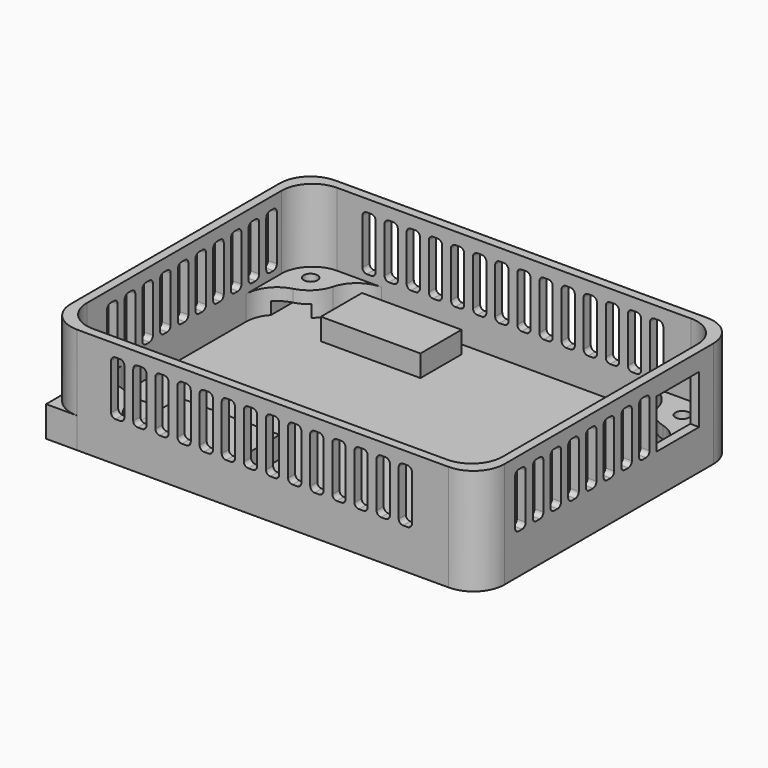
from build123d import *

# Parameters (mm, degrees)
CYLINDER009_R             = 1.7
CYLINDER009_DEPTH         = 2
CYLINDER007_R             = 1.7
CYLINDER007_DEPTH         = 2
BOX001_W                  = 2
BOX001_H                  = 10
BOX001_DEPTH              = 2
BOX002_W                  = 2
BOX002_H                  = 10
BOX002_DEPTH              = 2
CYLINDER_R                = 1.7
CYLINDER_DEPTH            = 2
BOX_W                     = 37
BOX_H                     = 73
BOX_DEPTH                 = 0.6
FILLET_R                  = 7
CYLINDER008_R             = 1.7
CYLINDER008_DEPTH         = 2
BOX075_W                  = 10.8118
BOX075_H                  = 2.8
BOX075_DEPTH              = 6
FILLET065_R               = 1
BOX087_W                  = 8
BOX087_H                  = 2.1
BOX087_DEPTH              = 3
CHAMFER003_SIZE           = 2.5
BOX086_W                  = 8
BOX086_H                  = 2.1
BOX086_DEPTH              = 3
CHAMFER002_SIZE           = 2.5
BOX088_W                  = 15.86
BOX088_H                  = 7
BOX088_DEPTH              = 4
FILLET067_R               = 1.7
CYLINDER004_R             = 3.5
CYLINDER004_DEPTH         = 6
BOX076_W                  = 22.5
BOX076_H                  = 11.6
BOX076_DEPTH              = 6.9
CYLINDER010_R             = 3.5
CYLINDER010_DEPTH         = 6
BOX089_W                  = 0.8
BOX089_H                  = 0.6
BOX089_DEPTH              = 2
FILLET068_R               = 0.2
BOX094_W                  = 0.9
BOX094_H                  = 0.6
BOX094_DEPTH              = 2
FILLET071_R               = 0.2
BOX093_W                  = 10.8118
BOX093_H                  = 2.8
BOX093_DEPTH              = 6
FILLET070_R               = 1
BOX092_W                  = 15.86
BOX092_H                  = 7
BOX092_DEPTH              = 4
FILLET069_R               = 1.7
CYLINDER011_R             = 3.5
CYLINDER011_DEPTH         = 6
BOX099_W                  = 0.8
BOX099_H                  = 0.6
BOX099_DEPTH              = 2
FILLET073_R               = 0.2
BOX095_W                  = 0.9
BOX095_H                  = 0.6
BOX095_DEPTH              = 2
FILLET072_R               = 0.2
BOX096_W                  = 10.8118
BOX096_H                  = 3.3
BOX096_DEPTH              = 6
FILLET075_R               = 1
BOX097_W                  = 15.86
BOX097_H                  = 7
BOX097_DEPTH              = 4
FILLET074_R               = 1.7
BOX091_W                  = 22.5
BOX091_H                  = 11.6
BOX091_DEPTH              = 6.9
BOX011_W                  = 3
BOX011_H                  = 2
BOX011_DEPTH              = 12.3
FILLET013_R               = 1
BOX013_W                  = 3
BOX013_H                  = 2
BOX013_DEPTH              = 12.3
FILLET011_R               = 1
BOX012_W                  = 3
BOX012_H                  = 2
BOX012_DEPTH              = 12.3
FILLET012_R               = 1
BOX014_W                  = 3
BOX014_H                  = 2
BOX014_DEPTH              = 12.3
FILLET010_R               = 1
BOX017_W                  = 3
BOX017_H                  = 2
BOX017_DEPTH              = 12.3
FILLET017_R               = 1
BOX016_W                  = 3
BOX016_H                  = 2
BOX016_DEPTH              = 12.3
FILLET016_R               = 1
BOX015_W                  = 3
BOX015_H                  = 2
BOX015_DEPTH              = 12.3
FILLET014_R               = 1
BOX018_W                  = 3
BOX018_H                  = 2
BOX018_DEPTH              = 12.3
FILLET015_R               = 1
BOX021_W                  = 3
BOX021_H                  = 2
BOX021_DEPTH              = 12.3
FILLET021_R               = 1
BOX020_W                  = 3
BOX020_H                  = 2
BOX020_DEPTH              = 12.3
FILLET020_R               = 1
BOX019_W                  = 3
BOX019_H                  = 2
BOX019_DEPTH              = 12.3
FILLET018_R               = 1
BOX022_W                  = 3
BOX022_H                  = 2
BOX022_DEPTH              = 12.3
FILLET019_R               = 1
BOX029_W                  = 3
BOX029_H                  = 2
BOX029_DEPTH              = 12.3
FILLET029_R               = 1
BOX028_W                  = 3
BOX028_H                  = 2
BOX028_DEPTH              = 12.3
FILLET028_R               = 1
BOX037_W                  = 3
BOX037_H                  = 2
BOX037_DEPTH              = 12.3
FILLET034_R               = 1
BOX036_W                  = 3
BOX036_H                  = 2
BOX036_DEPTH              = 12.3
FILLET037_R               = 1
BOX034_W                  = 3
BOX034_H                  = 2
BOX034_DEPTH              = 12.3
FILLET035_R               = 1
BOX035_W                  = 3
BOX035_H                  = 2
BOX035_DEPTH              = 12.3
FILLET036_R               = 1
FUSION026_PLACEMENT_ANGLE = 90
BOX038_W                  = 3
BOX038_H                  = 2
BOX038_DEPTH              = 12.3
FILLET039_R               = 1
BOX039_W                  = 3
BOX039_H                  = 2
BOX039_DEPTH              = 12.3
FILLET040_R               = 1
FUSION029_PLACEMENT_ANGLE = 90
BOX030_W                  = 3
BOX030_H                  = 2
BOX030_DEPTH              = 12.3
FILLET033_R               = 1
BOX032_W                  = 3
BOX032_H                  = 2
BOX032_DEPTH              = 12.3
FILLET031_R               = 1
BOX031_W                  = 3
BOX031_H                  = 2
BOX031_DEPTH              = 12.3
FILLET032_R               = 1
BOX033_W                  = 3
BOX033_H                  = 2
BOX033_DEPTH              = 12.3
FILLET030_R               = 1
FUSION021_PLACEMENT_ANGLE = 90
BOX048_W                  = 3
BOX048_H                  = 2
BOX048_DEPTH              = 12.3
FILLET052_R               = 1
BOX046_W                  = 3
BOX046_H                  = 2
BOX046_DEPTH              = 12.3
FILLET049_R               = 1
BOX044_W                  = 3
BOX044_H                  = 2
BOX044_DEPTH              = 12.3
FILLET046_R               = 1
BOX049_W                  = 3
BOX049_H                  = 2
BOX049_DEPTH              = 12.3
FILLET048_R               = 1
BOX043_W                  = 3
BOX043_H                  = 2
BOX043_DEPTH              = 12.3
FILLET045_R               = 1
BOX045_W                  = 3
BOX045_H                  = 2
BOX045_DEPTH              = 12.3
FILLET054_R               = 1
BOX047_W                  = 3
BOX047_H                  = 2
BOX047_DEPTH              = 12.3
FILLET047_R               = 1
BOX051_W                  = 3
BOX051_H                  = 2
BOX051_DEPTH              = 12.3
FILLET053_R               = 1
BOX053_W                  = 3
BOX053_H                  = 2
BOX053_DEPTH              = 12.3
FILLET051_R               = 1
BOX042_W                  = 3
BOX042_H                  = 2
BOX042_DEPTH              = 12.3
FILLET044_R               = 1
BOX040_W                  = 3
BOX040_H                  = 2
BOX040_DEPTH              = 12.3
FILLET041_R               = 1
BOX052_W                  = 3
BOX052_H                  = 2
BOX052_DEPTH              = 12.3
FILLET042_R               = 1
BOX050_W                  = 3
BOX050_H                  = 2
BOX050_DEPTH              = 12.3
FILLET050_R               = 1
BOX041_W                  = 3
BOX041_H                  = 2
BOX041_DEPTH              = 12.3
FILLET043_R               = 1
BOX064_W                  = 2
BOX064_H                  = 12
BOX064_DEPTH              = 11
BOX073_W                  = 3
BOX073_H                  = 2
BOX073_DEPTH              = 12.3
FILLET061_R               = 1
BOX067_W                  = 3
BOX067_H                  = 2
BOX067_DEPTH              = 12.3
FILLET056_R               = 1
BOX068_W                  = 3
BOX068_H                  = 2
BOX068_DEPTH              = 12.3
FILLET060_R               = 1
BOX074_W                  = 3
BOX074_H                  = 2
BOX074_DEPTH              = 12.3
FILLET059_R               = 1
FUSION042_PLACEMENT_ANGLE = 90
BOX071_W                  = 3
BOX071_H                  = 2
BOX071_DEPTH              = 12.3
FILLET064_R               = 1
BOX065_W                  = 3
BOX065_H                  = 2
BOX065_DEPTH              = 12.3
FILLET057_R               = 1
BOX066_W                  = 3
BOX066_H                  = 2
BOX066_DEPTH              = 12.3
FILLET062_R               = 1
BOX072_W                  = 3
BOX072_H                  = 2
BOX072_DEPTH              = 12.3
FILLET055_R               = 1
FUSION044_PLACEMENT_ANGLE = 90
BOX100_W                  = 94
BOX100_H                  = 69
BOX100_DEPTH              = 22
FILLET001_R               = 7
BOX102_W                  = 98
BOX102_H                  = 73
BOX102_DEPTH              = 24
FILLET076_R               = 7
CYLINDER001_R             = 1.55
CYLINDER001_DEPTH         = 2.8
CYLINDER002_R             = 1.55
CYLINDER002_DEPTH         = 2.8
CYLINDER003_R             = 1.55
CYLINDER003_DEPTH         = 2.8
BOX005_W                  = 6.3
BOX005_H                  = 66.7
BOX005_DEPTH              = 2.75
BOX006_W                  = 6.3
BOX006_H                  = 66.7
BOX006_DEPTH              = 2.75
CYLINDER012_R             = 1.55
CYLINDER012_DEPTH         = 2.8
BOX004_W                  = 74
BOX004_H                  = 69
BOX004_DEPTH              = 5.5
FILLET004_R               = 7
BOX003_W                  = 94
BOX003_H                  = 49
BOX003_DEPTH              = 5.5
FILLET003_R               = 7
BOX101_W                  = 94
BOX101_H                  = 69
BOX101_DEPTH              = 5.5
FILLET002_R               = 7
FILLET005_R               = 7
BOX098_W                  = 22.5
BOX098_H                  = 11.6
BOX098_DEPTH              = 6.9


with BuildPart() as t2:
    # Cylinder009 → Cylinder009 (new body)
    with BuildSketch(Plane(origin=(20.7, 59.25, 0), x_dir=(1, 0, 0), z_dir=(0, 0, 1))):
        Circle(CYLINDER009_R)
    extrude(amount=CYLINDER009_DEPTH)


with BuildPart() as left_hole:
    # Cylinder007 → Cylinder007 (new body)
    with BuildSketch(Plane(origin=(31, 13.75, 0), x_dir=(1, 0, 0), z_dir=(0, 0, 1))):
        Circle(CYLINDER007_R)
    extrude(amount=CYLINDER007_DEPTH)


with BuildPart() as topleft:
    # Box001 → Box001 (new body)
    with BuildSketch(Plane(origin=(10.3, 0, 0), x_dir=(1, 0, 0), z_dir=(0, 0, 1))):
        with Locations((1, 5)):
            Rectangle(BOX001_W, BOX001_H)
    extrude(amount=BOX001_DEPTH)


with BuildPart() as top_right:
    # Box002 → Box002 (new body)
    with BuildSketch(Plane(origin=(10.3, 63, 0), x_dir=(1, 0, 0), z_dir=(0, 0, 1))):
        with Locations((1, 5)):
            Rectangle(BOX002_W, BOX002_H)
    extrude(amount=BOX002_DEPTH)


with BuildPart() as cutouts:
    # Cylinder → Cylinder (new body)
    with BuildSketch(Plane(origin=(31, 59.25, 0), x_dir=(1, 0, 0), z_dir=(0, 0, 1))):
        Circle(CYLINDER_R)
    extrude(amount=CYLINDER_DEPTH)

    # Fusion: union Left Hole, TopLeft, Top Right
    add(left_hole.part)
    add(topleft.part)
    add(top_right.part)


with BuildPart() as cut:
    # Box → Box (new body)
    with BuildSketch(Plane.XY):
        with Locations((18.5, 36.5)):
            Rectangle(BOX_W, BOX_H)
    extrude(amount=BOX_DEPTH)

    # Fillet
    fillet_edges = [cut.edges().sort_by_distance(p)[0] for p in [
        (0, 0, 0.3),
        (0, 73, 0.3),
        (37, 0, 0.3),
        (37, 73, 0.3),
    ]]
    fillet(fillet_edges, radius=FILLET_R)

    # Cut: cut CutOuts
    add(cutouts.part, mode=Mode.SUBTRACT)


with BuildPart() as template:
    # Cylinder008 → Cylinder008 (new body)
    with BuildSketch(Plane(origin=(20.7, 13.75, 0), x_dir=(1, 0, 0), z_dir=(0, 0, 1))):
        Circle(CYLINDER008_R)
    extrude(amount=CYLINDER008_DEPTH)

    # Fusion001: union t2, Cut
    add(t2.part)
    add(cut.part)


with BuildPart() as slot:
    # Box075 → Box075 (new body)
    with BuildSketch(Plane.XY):
        with Locations((5.4059, 1.4)):
            Rectangle(BOX075_W, BOX075_H)
    extrude(amount=BOX075_DEPTH)

    # Fillet065
    fillet065_edges = [slot.edges().sort_by_distance(p)[0] for p in [
        (0, 0, 3),
        (0, 2.8, 3),
    ]]
    fillet(fillet065_edges, radius=FILLET065_R)


with BuildPart() as slot_1:
    # Fillet065 placement: moved
    add(slot.part.moved(Location((2.62, 2.1, 0))))


with BuildPart() as obj1:
    # Box087 → Box087 (new body)
    with BuildSketch(Plane.XY):
        with Locations((4, 1.05)):
            Rectangle(BOX087_W, BOX087_H)
    extrude(amount=BOX087_DEPTH)

    # Chamfer003
    chamfer003_edges = [obj1.edges().sort_by_distance(p)[0] for p in [
        (0, 1.05, 3),
        (8, 1.05, 3),
    ]]
    chamfer(chamfer003_edges, length=CHAMFER003_SIZE)


with BuildPart() as obj1_1:
    # Chamfer003 placement: moved
    add(obj1.part.moved(Location((0, 4.9, 0))))


with BuildPart() as bits:
    # Box086 → Box086 (new body)
    with BuildSketch(Plane.XY):
        with Locations((4, 1.05)):
            Rectangle(BOX086_W, BOX086_H)
    extrude(amount=BOX086_DEPTH)

    # Chamfer002
    chamfer002_edges = [bits.edges().sort_by_distance(p)[0] for p in [
        (0, 1.05, 3),
        (8, 1.05, 3),
    ]]
    chamfer(chamfer002_edges, length=CHAMFER002_SIZE)

    # Fusion002: union obj1
    add(obj1_1.part)


with BuildPart() as bits_1:
    # Fusion002 placement: moved
    add(bits.part.moved(Location((4.68, 0, 0.8))))


with BuildPart() as headspace:
    # Box088 → Box088 (new body)
    with BuildSketch(Plane.XY):
        with Locations((7.93, 3.5)):
            Rectangle(BOX088_W, BOX088_H)
    extrude(amount=BOX088_DEPTH)

    # Fillet067
    fillet067_edges = [headspace.edges().sort_by_distance(p)[0] for p in [
        (0, 0, 2),
        (0, 7, 2),
    ]]
    fillet(fillet067_edges, radius=FILLET067_R)


with BuildPart() as headspace_1:
    # Fillet067 placement: moved
    add(headspace.part.moved(Location((0, 0, 2))))

    # Cut001: cut Bits
    add(bits_1.part, mode=Mode.SUBTRACT)


with BuildPart() as assembly:
    # Cylinder004 → Cylinder004 (new body)
    with BuildSketch(Plane(origin=(15.86, 3.5, 0), x_dir=(1, 0, 0), z_dir=(0, 0, 1))):
        Circle(CYLINDER004_R)
    extrude(amount=CYLINDER004_DEPTH)

    # Fusion003: union Slot, Headspace
    add(slot_1.part)
    add(headspace_1.part)


with BuildPart() as assembly_1:
    # Fusion003 placement: moved
    add(assembly.part.moved(Location((2, 2.5, 0))))


with BuildPart() as mountholetemplate:
    # Box076 → Box076 (new body)
    with BuildSketch(Plane.XY):
        with Locations((11.25, 5.8)):
            Rectangle(BOX076_W, BOX076_H)
    extrude(amount=BOX076_DEPTH)

    # Cut002: cut Assembly
    add(assembly_1.part, mode=Mode.SUBTRACT)


with BuildPart() as obj2:
    # Cylinder010 → Cylinder010 (new body)
    with BuildSketch(Plane(origin=(15.86, 3.5, 0), x_dir=(1, 0, 0), z_dir=(0, 0, 1))):
        Circle(CYLINDER010_R)
    extrude(amount=CYLINDER010_DEPTH)


with BuildPart() as obj3:
    # Box089 → Box089 (new body)
    with BuildSketch(Plane.XY):
        with Locations((0.4, 0.3)):
            Rectangle(BOX089_W, BOX089_H)
    extrude(amount=BOX089_DEPTH)

    # Fillet068
    fillet068_edges = [obj3.edges().sort_by_distance(p)[0] for p in [
        (0, 0.6, 1),
        (0.8, 0.6, 1),
    ]]
    fillet(fillet068_edges, radius=FILLET068_R)


with BuildPart() as obj3_1:
    # Fillet068 placement: moved
    add(obj3.part.moved(Location((5.2, 2.1, 0))))


with BuildPart() as notches:
    # Box094 → Box094 (new body)
    with BuildSketch(Plane.XY):
        with Locations((0.45, 0.3)):
            Rectangle(BOX094_W, BOX094_H)
    extrude(amount=BOX094_DEPTH)

    # Fillet071
    fillet071_edges = [notches.edges().sort_by_distance(p)[0] for p in [
        (0, 0, 1),
        (0.9, 0, 1),
    ]]
    fillet(fillet071_edges, radius=FILLET071_R)


with BuildPart() as notches_1:
    # Fillet071 placement: moved
    add(notches.part.moved(Location((7.2, 4.3, 0))))

    # Fusion062: union obj3
    add(obj3_1.part)


with BuildPart() as cut005:
    # Box093 → Box093 (new body)
    with BuildSketch(Plane.XY):
        with Locations((5.4059, 1.4)):
            Rectangle(BOX093_W, BOX093_H)
    extrude(amount=BOX093_DEPTH)

    # Fillet070
    fillet070_edges = [cut005.edges().sort_by_distance(p)[0] for p in [
        (0, 0, 3),
        (0, 2.8, 3),
    ]]
    fillet(fillet070_edges, radius=FILLET070_R)


with BuildPart() as cut005_1:
    # Fillet070 placement: moved
    add(cut005.part.moved(Location((2.62, 2.1, 0))))

    # Cut005: cut notches
    add(notches_1.part, mode=Mode.SUBTRACT)


with BuildPart() as leftmounthole:
    # Box092 → Box092 (new body)
    with BuildSketch(Plane.XY):
        with Locations((7.93, 3.5)):
            Rectangle(BOX092_W, BOX092_H)
    extrude(amount=BOX092_DEPTH)

    # Fillet069
    fillet069_edges = [leftmounthole.edges().sort_by_distance(p)[0] for p in [
        (0, 0, 2),
        (0, 7, 2),
    ]]
    fillet(fillet069_edges, radius=FILLET069_R)


with BuildPart() as leftmounthole_1:
    # Fillet069 placement: moved
    add(leftmounthole.part.moved(Location((0, 0, 2))))

    # Fusion061: union obj2, Cut005
    add(obj2.part)
    add(cut005_1.part)


with BuildPart() as leftmounthole_2:
    # Fusion061 placement: moved
    add(leftmounthole_1.part.moved(Location((19, 7.3, 0))))


with BuildPart() as obj4:
    # Cylinder011 → Cylinder011 (new body)
    with BuildSketch(Plane(origin=(15.86, 3.5, 0), x_dir=(1, 0, 0), z_dir=(0, 0, 1))):
        Circle(CYLINDER011_R)
    extrude(amount=CYLINDER011_DEPTH)


with BuildPart() as obj5:
    # Box099 → Box099 (new body)
    with BuildSketch(Plane.XY):
        with Locations((0.4, 0.3)):
            Rectangle(BOX099_W, BOX099_H)
    extrude(amount=BOX099_DEPTH)

    # Fillet073
    fillet073_edges = [obj5.edges().sort_by_distance(p)[0] for p in [
        (0, 0.6, 1),
        (0.8, 0.6, 1),
    ]]
    fillet(fillet073_edges, radius=FILLET073_R)


with BuildPart() as obj5_1:
    # Fillet073 placement: moved
    add(obj5.part.moved(Location((5.2, 2.1, 0))))


with BuildPart() as notches001:
    # Box095 → Box095 (new body)
    with BuildSketch(Plane.XY):
        with Locations((0.45, 0.3)):
            Rectangle(BOX095_W, BOX095_H)
    extrude(amount=BOX095_DEPTH)

    # Fillet072
    fillet072_edges = [notches001.edges().sort_by_distance(p)[0] for p in [
        (0, 0, 1),
        (0.9, 0, 1),
    ]]
    fillet(fillet072_edges, radius=FILLET072_R)


with BuildPart() as notches001_1:
    # Fillet072 placement: moved
    add(notches001.part.moved(Location((7.2, 4.3, 0))))

    # Fusion064: union obj5
    add(obj5_1.part)


with BuildPart() as cut009:
    # Box096 → Box096 (new body)
    with BuildSketch(Plane.XY):
        with Locations((5.4059, 1.65)):
            Rectangle(BOX096_W, BOX096_H)
    extrude(amount=BOX096_DEPTH)

    # Fillet075
    fillet075_edges = [cut009.edges().sort_by_distance(p)[0] for p in [
        (0, 0, 3),
        (0, 3.3, 3),
    ]]
    fillet(fillet075_edges, radius=FILLET075_R)


with BuildPart() as cut009_1:
    # Fillet075 placement: moved
    add(cut009.part.moved(Location((2.62, 1.85, 0))))

    # Cut009: cut notches001
    add(notches001_1.part, mode=Mode.SUBTRACT)


with BuildPart() as mountholes:
    # Box097 → Box097 (new body)
    with BuildSketch(Plane.XY):
        with Locations((7.93, 3.5)):
            Rectangle(BOX097_W, BOX097_H)
    extrude(amount=BOX097_DEPTH)

    # Fillet074
    fillet074_edges = [mountholes.edges().sort_by_distance(p)[0] for p in [
        (0, 0, 2),
        (0, 7, 2),
    ]]
    fillet(fillet074_edges, radius=FILLET074_R)


with BuildPart() as mountholes_1:
    # Fillet074 placement: moved
    add(mountholes.part.moved(Location((0, 0, 2))))

    # Fusion063: union obj4, Cut009
    add(obj4.part)
    add(cut009_1.part)


with BuildPart() as mountholes_2:
    # Fusion063 placement: moved
    add(mountholes_1.part.moved(Location((19, 58.7, 0))))

    # Fusion066: union LeftMountHole
    add(leftmounthole_2.part)


with BuildPart() as leftmountcover:
    # Box091 → Box091 (new body)
    with BuildSketch(Plane(origin=(17, 5, 0), x_dir=(1, 0, 0), z_dir=(0, 0, 1))):
        with Locations((11.25, 5.8)):
            Rectangle(BOX091_W, BOX091_H)
    extrude(amount=BOX091_DEPTH)


with BuildPart() as roundedslot008:
    # Box011 → Box011 (new body)
    with BuildSketch(Plane.XY):
        with Locations((1.5, 1)):
            Rectangle(BOX011_W, BOX011_H)
    extrude(amount=BOX011_DEPTH)

    # Fillet013
    fillet013_edges = [roundedslot008.edges().sort_by_distance(p)[0] for p in [
        (0, 1, 12.3),
        (0, 1, 0),
        (3, 1, 12.3),
        (3, 1, 0),
    ]]
    fillet(fillet013_edges, radius=FILLET013_R)


with BuildPart() as fusion007:
    # Box013 → Box013 (new body)
    with BuildSketch(Plane.XY):
        with Locations((1.5, 1)):
            Rectangle(BOX013_W, BOX013_H)
    extrude(amount=BOX013_DEPTH)

    # Fillet011
    fillet011_edges = [fusion007.edges().sort_by_distance(p)[0] for p in [
        (0, 1, 12.3),
        (0, 1, 0),
        (3, 1, 12.3),
        (3, 1, 0),
    ]]
    fillet(fillet011_edges, radius=FILLET011_R)


with BuildPart() as fusion007_1:
    # Fillet011 placement: moved
    add(fusion007.part.moved(Location((5, 0, 0))))

    # Fusion007: union RoundedSlot008
    add(roundedslot008.part)


with BuildPart() as fusion007_2:
    # Fusion007 placement: moved
    add(fusion007_1.part.moved(Location((10, 0, 0))))


with BuildPart() as roundedslot007:
    # Box012 → Box012 (new body)
    with BuildSketch(Plane.XY):
        with Locations((1.5, 1)):
            Rectangle(BOX012_W, BOX012_H)
    extrude(amount=BOX012_DEPTH)

    # Fillet012
    fillet012_edges = [roundedslot007.edges().sort_by_distance(p)[0] for p in [
        (0, 1, 12.3),
        (0, 1, 0),
        (3, 1, 12.3),
        (3, 1, 0),
    ]]
    fillet(fillet012_edges, radius=FILLET012_R)


with BuildPart() as slot_template001:
    # Box014 → Box014 (new body)
    with BuildSketch(Plane.XY):
        with Locations((1.5, 1)):
            Rectangle(BOX014_W, BOX014_H)
    extrude(amount=BOX014_DEPTH)

    # Fillet010
    fillet010_edges = [slot_template001.edges().sort_by_distance(p)[0] for p in [
        (0, 1, 12.3),
        (0, 1, 0),
        (3, 1, 12.3),
        (3, 1, 0),
    ]]
    fillet(fillet010_edges, radius=FILLET010_R)


with BuildPart() as slot_template001_1:
    # Fillet010 placement: moved
    add(slot_template001.part.moved(Location((5, 0, 0))))

    # Fusion008: union RoundedSlot007
    add(roundedslot007.part)

    # Fusion006: union Fusion007
    add(fusion007_2.part)


with BuildPart() as roundedslot012:
    # Box017 → Box017 (new body)
    with BuildSketch(Plane.XY):
        with Locations((1.5, 1)):
            Rectangle(BOX017_W, BOX017_H)
    extrude(amount=BOX017_DEPTH)

    # Fillet017
    fillet017_edges = [roundedslot012.edges().sort_by_distance(p)[0] for p in [
        (0, 1, 12.3),
        (0, 1, 0),
        (3, 1, 12.3),
        (3, 1, 0),
    ]]
    fillet(fillet017_edges, radius=FILLET017_R)


with BuildPart() as fusion009:
    # Box016 → Box016 (new body)
    with BuildSketch(Plane.XY):
        with Locations((1.5, 1)):
            Rectangle(BOX016_W, BOX016_H)
    extrude(amount=BOX016_DEPTH)

    # Fillet016
    fillet016_edges = [fusion009.edges().sort_by_distance(p)[0] for p in [
        (0, 1, 12.3),
        (0, 1, 0),
        (3, 1, 12.3),
        (3, 1, 0),
    ]]
    fillet(fillet016_edges, radius=FILLET016_R)


with BuildPart() as fusion009_1:
    # Fillet016 placement: moved
    add(fusion009.part.moved(Location((5, 0, 0))))

    # Fusion009: union RoundedSlot012
    add(roundedslot012.part)


with BuildPart() as fusion009_2:
    # Fusion009 placement: moved
    add(fusion009_1.part.moved(Location((10, 0, 0))))


with BuildPart() as roundedslot009:
    # Box015 → Box015 (new body)
    with BuildSketch(Plane.XY):
        with Locations((1.5, 1)):
            Rectangle(BOX015_W, BOX015_H)
    extrude(amount=BOX015_DEPTH)

    # Fillet014
    fillet014_edges = [roundedslot009.edges().sort_by_distance(p)[0] for p in [
        (0, 1, 12.3),
        (0, 1, 0),
        (3, 1, 12.3),
        (3, 1, 0),
    ]]
    fillet(fillet014_edges, radius=FILLET014_R)


with BuildPart() as slot_template002:
    # Box018 → Box018 (new body)
    with BuildSketch(Plane.XY):
        with Locations((1.5, 1)):
            Rectangle(BOX018_W, BOX018_H)
    extrude(amount=BOX018_DEPTH)

    # Fillet015
    fillet015_edges = [slot_template002.edges().sort_by_distance(p)[0] for p in [
        (0, 1, 12.3),
        (0, 1, 0),
        (3, 1, 12.3),
        (3, 1, 0),
    ]]
    fillet(fillet015_edges, radius=FILLET015_R)


with BuildPart() as slot_template002_1:
    # Fillet015 placement: moved
    add(slot_template002.part.moved(Location((5, 0, 0))))

    # Fusion011: union RoundedSlot009
    add(roundedslot009.part)

    # Fusion010: union Fusion009
    add(fusion009_2.part)


with BuildPart() as slot_template002_2:
    # Fusion010 placement: moved
    add(slot_template002_1.part.moved(Location((20, 0, 0))))


with BuildPart() as roundedslot016:
    # Box021 → Box021 (new body)
    with BuildSketch(Plane.XY):
        with Locations((1.5, 1)):
            Rectangle(BOX021_W, BOX021_H)
    extrude(amount=BOX021_DEPTH)

    # Fillet021
    fillet021_edges = [roundedslot016.edges().sort_by_distance(p)[0] for p in [
        (0, 1, 12.3),
        (0, 1, 0),
        (3, 1, 12.3),
        (3, 1, 0),
    ]]
    fillet(fillet021_edges, radius=FILLET021_R)


with BuildPart() as fusion012:
    # Box020 → Box020 (new body)
    with BuildSketch(Plane.XY):
        with Locations((1.5, 1)):
            Rectangle(BOX020_W, BOX020_H)
    extrude(amount=BOX020_DEPTH)

    # Fillet020
    fillet020_edges = [fusion012.edges().sort_by_distance(p)[0] for p in [
        (0, 1, 12.3),
        (0, 1, 0),
        (3, 1, 12.3),
        (3, 1, 0),
    ]]
    fillet(fillet020_edges, radius=FILLET020_R)


with BuildPart() as fusion012_1:
    # Fillet020 placement: moved
    add(fusion012.part.moved(Location((5, 0, 0))))

    # Fusion012: union RoundedSlot016
    add(roundedslot016.part)


with BuildPart() as fusion012_2:
    # Fusion012 placement: moved
    add(fusion012_1.part.moved(Location((10, 0, 0))))


with BuildPart() as roundedslot013:
    # Box019 → Box019 (new body)
    with BuildSketch(Plane.XY):
        with Locations((1.5, 1)):
            Rectangle(BOX019_W, BOX019_H)
    extrude(amount=BOX019_DEPTH)

    # Fillet018
    fillet018_edges = [roundedslot013.edges().sort_by_distance(p)[0] for p in [
        (0, 1, 12.3),
        (0, 1, 0),
        (3, 1, 12.3),
        (3, 1, 0),
    ]]
    fillet(fillet018_edges, radius=FILLET018_R)


with BuildPart() as slot_template003:
    # Box022 → Box022 (new body)
    with BuildSketch(Plane.XY):
        with Locations((1.5, 1)):
            Rectangle(BOX022_W, BOX022_H)
    extrude(amount=BOX022_DEPTH)

    # Fillet019
    fillet019_edges = [slot_template003.edges().sort_by_distance(p)[0] for p in [
        (0, 1, 12.3),
        (0, 1, 0),
        (3, 1, 12.3),
        (3, 1, 0),
    ]]
    fillet(fillet019_edges, radius=FILLET019_R)


with BuildPart() as slot_template003_1:
    # Fillet019 placement: moved
    add(slot_template003.part.moved(Location((5, 0, 0))))

    # Fusion014: union RoundedSlot013
    add(roundedslot013.part)

    # Fusion013: union Fusion012
    add(fusion012_2.part)


with BuildPart() as slot_template003_2:
    # Fusion013 placement: moved
    add(slot_template003_1.part.moved(Location((40, 0, 0))))


with BuildPart() as roundedslot024:
    # Box029 → Box029 (new body)
    with BuildSketch(Plane.XY):
        with Locations((1.5, 1)):
            Rectangle(BOX029_W, BOX029_H)
    extrude(amount=BOX029_DEPTH)

    # Fillet029
    fillet029_edges = [roundedslot024.edges().sort_by_distance(p)[0] for p in [
        (0, 1, 12.3),
        (0, 1, 0),
        (3, 1, 12.3),
        (3, 1, 0),
    ]]
    fillet(fillet029_edges, radius=FILLET029_R)


with BuildPart() as rightgrille:
    # Box028 → Box028 (new body)
    with BuildSketch(Plane.XY):
        with Locations((1.5, 1)):
            Rectangle(BOX028_W, BOX028_H)
    extrude(amount=BOX028_DEPTH)

    # Fillet028
    fillet028_edges = [rightgrille.edges().sort_by_distance(p)[0] for p in [
        (0, 1, 12.3),
        (0, 1, 0),
        (3, 1, 12.3),
        (3, 1, 0),
    ]]
    fillet(fillet028_edges, radius=FILLET028_R)


with BuildPart() as rightgrille_1:
    # Fillet028 placement: moved
    add(rightgrille.part.moved(Location((5, 0, 0))))

    # Fusion018: union RoundedSlot024
    add(roundedslot024.part)


with BuildPart() as rightgrille_2:
    # Fusion018 placement: moved
    add(rightgrille_1.part.moved(Location((60, 0, 0))))

    # Fusion019: union Slot-Template001, Slot-Template002, Slot-Template003
    add(slot_template001_1.part)
    add(slot_template002_2.part)
    add(slot_template003_2.part)


with BuildPart() as rightgrille_3:
    # Fusion019 placement: moved
    add(rightgrille_2.part.moved(Location((14.7, 71, 9))))


with BuildPart() as roundedslot029:
    # Box037 → Box037 (new body)
    with BuildSketch(Plane.XY):
        with Locations((1.5, 1)):
            Rectangle(BOX037_W, BOX037_H)
    extrude(amount=BOX037_DEPTH)

    # Fillet034
    fillet034_edges = [roundedslot029.edges().sort_by_distance(p)[0] for p in [
        (0, 1, 12.3),
        (0, 1, 0),
        (3, 1, 12.3),
        (3, 1, 0),
    ]]
    fillet(fillet034_edges, radius=FILLET034_R)


with BuildPart() as fusion024:
    # Box036 → Box036 (new body)
    with BuildSketch(Plane.XY):
        with Locations((1.5, 1)):
            Rectangle(BOX036_W, BOX036_H)
    extrude(amount=BOX036_DEPTH)

    # Fillet037
    fillet037_edges = [fusion024.edges().sort_by_distance(p)[0] for p in [
        (0, 1, 12.3),
        (0, 1, 0),
        (3, 1, 12.3),
        (3, 1, 0),
    ]]
    fillet(fillet037_edges, radius=FILLET037_R)


with BuildPart() as fusion024_1:
    # Fillet037 placement: moved
    add(fusion024.part.moved(Location((5, 0, 0))))

    # Fusion024: union RoundedSlot029
    add(roundedslot029.part)


with BuildPart() as fusion024_2:
    # Fusion024 placement: moved
    add(fusion024_1.part.moved(Location((10, 0, 0))))


with BuildPart() as roundedslot030:
    # Box034 → Box034 (new body)
    with BuildSketch(Plane.XY):
        with Locations((1.5, 1)):
            Rectangle(BOX034_W, BOX034_H)
    extrude(amount=BOX034_DEPTH)

    # Fillet035
    fillet035_edges = [roundedslot030.edges().sort_by_distance(p)[0] for p in [
        (0, 1, 12.3),
        (0, 1, 0),
        (3, 1, 12.3),
        (3, 1, 0),
    ]]
    fillet(fillet035_edges, radius=FILLET035_R)


with BuildPart() as slot_template005:
    # Box035 → Box035 (new body)
    with BuildSketch(Plane.XY):
        with Locations((1.5, 1)):
            Rectangle(BOX035_W, BOX035_H)
    extrude(amount=BOX035_DEPTH)

    # Fillet036
    fillet036_edges = [slot_template005.edges().sort_by_distance(p)[0] for p in [
        (0, 1, 12.3),
        (0, 1, 0),
        (3, 1, 12.3),
        (3, 1, 0),
    ]]
    fillet(fillet036_edges, radius=FILLET036_R)


with BuildPart() as slot_template005_1:
    # Fillet036 placement: moved
    add(slot_template005.part.moved(Location((5, 0, 0))))

    # Fusion025: union RoundedSlot030
    add(roundedslot030.part)

    # Fusion026: union Fusion024
    add(fusion024_2.part)


with BuildPart() as slot_template005_2:
    # Fusion026 placement: moved
    add(slot_template005_1.part.moved(Location((0, 20, 0))).rotate(Axis((0, 20, 0), (0, 0, 1)), FUSION026_PLACEMENT_ANGLE))


with BuildPart() as roundedslot034:
    # Box038 → Box038 (new body)
    with BuildSketch(Plane.XY):
        with Locations((1.5, 1)):
            Rectangle(BOX038_W, BOX038_H)
    extrude(amount=BOX038_DEPTH)

    # Fillet039
    fillet039_edges = [roundedslot034.edges().sort_by_distance(p)[0] for p in [
        (0, 1, 12.3),
        (0, 1, 0),
        (3, 1, 12.3),
        (3, 1, 0),
    ]]
    fillet(fillet039_edges, radius=FILLET039_R)


with BuildPart() as slot_template006:
    # Box039 → Box039 (new body)
    with BuildSketch(Plane.XY):
        with Locations((1.5, 1)):
            Rectangle(BOX039_W, BOX039_H)
    extrude(amount=BOX039_DEPTH)

    # Fillet040
    fillet040_edges = [slot_template006.edges().sort_by_distance(p)[0] for p in [
        (0, 1, 12.3),
        (0, 1, 0),
        (3, 1, 12.3),
        (3, 1, 0),
    ]]
    fillet(fillet040_edges, radius=FILLET040_R)


with BuildPart() as slot_template006_1:
    # Fillet040 placement: moved
    add(slot_template006.part.moved(Location((5, 0, 0))))

    # Fusion028: union RoundedSlot034
    add(roundedslot034.part)


with BuildPart() as slot_template006_2:
    # Fusion029 placement: moved
    add(slot_template006_1.part.moved(Location((0, 40, 0))).rotate(Axis((0, 40, 0), (0, 0, 1)), FUSION029_PLACEMENT_ANGLE))


with BuildPart() as roundedslot028:
    # Box030 → Box030 (new body)
    with BuildSketch(Plane.XY):
        with Locations((1.5, 1)):
            Rectangle(BOX030_W, BOX030_H)
    extrude(amount=BOX030_DEPTH)

    # Fillet033
    fillet033_edges = [roundedslot028.edges().sort_by_distance(p)[0] for p in [
        (0, 1, 12.3),
        (0, 1, 0),
        (3, 1, 12.3),
        (3, 1, 0),
    ]]
    fillet(fillet033_edges, radius=FILLET033_R)


with BuildPart() as fusion022:
    # Box032 → Box032 (new body)
    with BuildSketch(Plane.XY):
        with Locations((1.5, 1)):
            Rectangle(BOX032_W, BOX032_H)
    extrude(amount=BOX032_DEPTH)

    # Fillet031
    fillet031_edges = [fusion022.edges().sort_by_distance(p)[0] for p in [
        (0, 1, 12.3),
        (0, 1, 0),
        (3, 1, 12.3),
        (3, 1, 0),
    ]]
    fillet(fillet031_edges, radius=FILLET031_R)


with BuildPart() as fusion022_1:
    # Fillet031 placement: moved
    add(fusion022.part.moved(Location((5, 0, 0))))

    # Fusion022: union RoundedSlot028
    add(roundedslot028.part)


with BuildPart() as fusion022_2:
    # Fusion022 placement: moved
    add(fusion022_1.part.moved(Location((10, 0, 0))))


with BuildPart() as roundedslot027:
    # Box031 → Box031 (new body)
    with BuildSketch(Plane.XY):
        with Locations((1.5, 1)):
            Rectangle(BOX031_W, BOX031_H)
    extrude(amount=BOX031_DEPTH)

    # Fillet032
    fillet032_edges = [roundedslot027.edges().sort_by_distance(p)[0] for p in [
        (0, 1, 12.3),
        (0, 1, 0),
        (3, 1, 12.3),
        (3, 1, 0),
    ]]
    fillet(fillet032_edges, radius=FILLET032_R)


with BuildPart() as topgrill:
    # Box033 → Box033 (new body)
    with BuildSketch(Plane.XY):
        with Locations((1.5, 1)):
            Rectangle(BOX033_W, BOX033_H)
    extrude(amount=BOX033_DEPTH)

    # Fillet030
    fillet030_edges = [topgrill.edges().sort_by_distance(p)[0] for p in [
        (0, 1, 12.3),
        (0, 1, 0),
        (3, 1, 12.3),
        (3, 1, 0),
    ]]
    fillet(fillet030_edges, radius=FILLET030_R)


with BuildPart() as topgrill_1:
    # Fillet030 placement: moved
    add(topgrill.part.moved(Location((5, 0, 0))))

    # Fusion023: union RoundedSlot027
    add(roundedslot027.part)

    # Fusion021: union Fusion022
    add(fusion022_2.part)


with BuildPart() as topgrill_2:
    # Fusion021 placement: moved
    add(topgrill_1.part.rotate(Axis((0, 0, 0), (0, 0, 1)), FUSION021_PLACEMENT_ANGLE))

    # Fusion030: union Slot-Template005, Slot-Template006
    add(slot_template005_2.part)
    add(slot_template006_2.part)


with BuildPart() as topgrill_3:
    # Fusion030 placement: moved
    add(topgrill_2.part.moved(Location((2, 14.7, 9))))


with BuildPart() as roundedslot047:
    # Box048 → Box048 (new body)
    with BuildSketch(Plane.XY):
        with Locations((1.5, 1)):
            Rectangle(BOX048_W, BOX048_H)
    extrude(amount=BOX048_DEPTH)

    # Fillet052
    fillet052_edges = [roundedslot047.edges().sort_by_distance(p)[0] for p in [
        (0, 1, 12.3),
        (0, 1, 0),
        (3, 1, 12.3),
        (3, 1, 0),
    ]]
    fillet(fillet052_edges, radius=FILLET052_R)


with BuildPart() as fusion032:
    # Box046 → Box046 (new body)
    with BuildSketch(Plane.XY):
        with Locations((1.5, 1)):
            Rectangle(BOX046_W, BOX046_H)
    extrude(amount=BOX046_DEPTH)

    # Fillet049
    fillet049_edges = [fusion032.edges().sort_by_distance(p)[0] for p in [
        (0, 1, 12.3),
        (0, 1, 0),
        (3, 1, 12.3),
        (3, 1, 0),
    ]]
    fillet(fillet049_edges, radius=FILLET049_R)


with BuildPart() as fusion032_1:
    # Fillet049 placement: moved
    add(fusion032.part.moved(Location((5, 0, 0))))

    # Fusion032: union RoundedSlot047
    add(roundedslot047.part)


with BuildPart() as fusion032_2:
    # Fusion032 placement: moved
    add(fusion032_1.part.moved(Location((10, 0, 0))))


with BuildPart() as roundedslot041:
    # Box044 → Box044 (new body)
    with BuildSketch(Plane.XY):
        with Locations((1.5, 1)):
            Rectangle(BOX044_W, BOX044_H)
    extrude(amount=BOX044_DEPTH)

    # Fillet046
    fillet046_edges = [roundedslot041.edges().sort_by_distance(p)[0] for p in [
        (0, 1, 12.3),
        (0, 1, 0),
        (3, 1, 12.3),
        (3, 1, 0),
    ]]
    fillet(fillet046_edges, radius=FILLET046_R)


with BuildPart() as slot_template007:
    # Box049 → Box049 (new body)
    with BuildSketch(Plane.XY):
        with Locations((1.5, 1)):
            Rectangle(BOX049_W, BOX049_H)
    extrude(amount=BOX049_DEPTH)

    # Fillet048
    fillet048_edges = [slot_template007.edges().sort_by_distance(p)[0] for p in [
        (0, 1, 12.3),
        (0, 1, 0),
        (3, 1, 12.3),
        (3, 1, 0),
    ]]
    fillet(fillet048_edges, radius=FILLET048_R)


with BuildPart() as slot_template007_1:
    # Fillet048 placement: moved
    add(slot_template007.part.moved(Location((5, 0, 0))))

    # Fusion038: union RoundedSlot041
    add(roundedslot041.part)

    # Fusion033: union Fusion032
    add(fusion032_2.part)


with BuildPart() as roundedslot040:
    # Box043 → Box043 (new body)
    with BuildSketch(Plane.XY):
        with Locations((1.5, 1)):
            Rectangle(BOX043_W, BOX043_H)
    extrude(amount=BOX043_DEPTH)

    # Fillet045
    fillet045_edges = [roundedslot040.edges().sort_by_distance(p)[0] for p in [
        (0, 1, 12.3),
        (0, 1, 0),
        (3, 1, 12.3),
        (3, 1, 0),
    ]]
    fillet(fillet045_edges, radius=FILLET045_R)


with BuildPart() as fusion039:
    # Box045 → Box045 (new body)
    with BuildSketch(Plane.XY):
        with Locations((1.5, 1)):
            Rectangle(BOX045_W, BOX045_H)
    extrude(amount=BOX045_DEPTH)

    # Fillet054
    fillet054_edges = [fusion039.edges().sort_by_distance(p)[0] for p in [
        (0, 1, 12.3),
        (0, 1, 0),
        (3, 1, 12.3),
        (3, 1, 0),
    ]]
    fillet(fillet054_edges, radius=FILLET054_R)


with BuildPart() as fusion039_1:
    # Fillet054 placement: moved
    add(fusion039.part.moved(Location((5, 0, 0))))

    # Fusion039: union RoundedSlot040
    add(roundedslot040.part)


with BuildPart() as fusion039_2:
    # Fusion039 placement: moved
    add(fusion039_1.part.moved(Location((10, 0, 0))))


with BuildPart() as roundedslot042:
    # Box047 → Box047 (new body)
    with BuildSketch(Plane.XY):
        with Locations((1.5, 1)):
            Rectangle(BOX047_W, BOX047_H)
    extrude(amount=BOX047_DEPTH)

    # Fillet047
    fillet047_edges = [roundedslot042.edges().sort_by_distance(p)[0] for p in [
        (0, 1, 12.3),
        (0, 1, 0),
        (3, 1, 12.3),
        (3, 1, 0),
    ]]
    fillet(fillet047_edges, radius=FILLET047_R)


with BuildPart() as slot_template008:
    # Box051 → Box051 (new body)
    with BuildSketch(Plane.XY):
        with Locations((1.5, 1)):
            Rectangle(BOX051_W, BOX051_H)
    extrude(amount=BOX051_DEPTH)

    # Fillet053
    fillet053_edges = [slot_template008.edges().sort_by_distance(p)[0] for p in [
        (0, 1, 12.3),
        (0, 1, 0),
        (3, 1, 12.3),
        (3, 1, 0),
    ]]
    fillet(fillet053_edges, radius=FILLET053_R)


with BuildPart() as slot_template008_1:
    # Fillet053 placement: moved
    add(slot_template008.part.moved(Location((5, 0, 0))))

    # Fusion041: union RoundedSlot042
    add(roundedslot042.part)

    # Fusion034: union Fusion039
    add(fusion039_2.part)


with BuildPart() as slot_template008_2:
    # Fusion034 placement: moved
    add(slot_template008_1.part.moved(Location((20, 0, 0))))


with BuildPart() as roundedslot046:
    # Box053 → Box053 (new body)
    with BuildSketch(Plane.XY):
        with Locations((1.5, 1)):
            Rectangle(BOX053_W, BOX053_H)
    extrude(amount=BOX053_DEPTH)

    # Fillet051
    fillet051_edges = [roundedslot046.edges().sort_by_distance(p)[0] for p in [
        (0, 1, 12.3),
        (0, 1, 0),
        (3, 1, 12.3),
        (3, 1, 0),
    ]]
    fillet(fillet051_edges, radius=FILLET051_R)


with BuildPart() as fusion031:
    # Box042 → Box042 (new body)
    with BuildSketch(Plane.XY):
        with Locations((1.5, 1)):
            Rectangle(BOX042_W, BOX042_H)
    extrude(amount=BOX042_DEPTH)

    # Fillet044
    fillet044_edges = [fusion031.edges().sort_by_distance(p)[0] for p in [
        (0, 1, 12.3),
        (0, 1, 0),
        (3, 1, 12.3),
        (3, 1, 0),
    ]]
    fillet(fillet044_edges, radius=FILLET044_R)


with BuildPart() as fusion031_1:
    # Fillet044 placement: moved
    add(fusion031.part.moved(Location((5, 0, 0))))

    # Fusion031: union RoundedSlot046
    add(roundedslot046.part)


with BuildPart() as fusion031_2:
    # Fusion031 placement: moved
    add(fusion031_1.part.moved(Location((10, 0, 0))))


with BuildPart() as roundedslot036:
    # Box040 → Box040 (new body)
    with BuildSketch(Plane.XY):
        with Locations((1.5, 1)):
            Rectangle(BOX040_W, BOX040_H)
    extrude(amount=BOX040_DEPTH)

    # Fillet041
    fillet041_edges = [roundedslot036.edges().sort_by_distance(p)[0] for p in [
        (0, 1, 12.3),
        (0, 1, 0),
        (3, 1, 12.3),
        (3, 1, 0),
    ]]
    fillet(fillet041_edges, radius=FILLET041_R)


with BuildPart() as slot_template009:
    # Box052 → Box052 (new body)
    with BuildSketch(Plane.XY):
        with Locations((1.5, 1)):
            Rectangle(BOX052_W, BOX052_H)
    extrude(amount=BOX052_DEPTH)

    # Fillet042
    fillet042_edges = [slot_template009.edges().sort_by_distance(p)[0] for p in [
        (0, 1, 12.3),
        (0, 1, 0),
        (3, 1, 12.3),
        (3, 1, 0),
    ]]
    fillet(fillet042_edges, radius=FILLET042_R)


with BuildPart() as slot_template009_1:
    # Fillet042 placement: moved
    add(slot_template009.part.moved(Location((5, 0, 0))))

    # Fusion040: union RoundedSlot036
    add(roundedslot036.part)

    # Fusion037: union Fusion031
    add(fusion031_2.part)


with BuildPart() as slot_template009_2:
    # Fusion037 placement: moved
    add(slot_template009_1.part.moved(Location((40, 0, 0))))


with BuildPart() as roundedslot045:
    # Box050 → Box050 (new body)
    with BuildSketch(Plane.XY):
        with Locations((1.5, 1)):
            Rectangle(BOX050_W, BOX050_H)
    extrude(amount=BOX050_DEPTH)

    # Fillet050
    fillet050_edges = [roundedslot045.edges().sort_by_distance(p)[0] for p in [
        (0, 1, 12.3),
        (0, 1, 0),
        (3, 1, 12.3),
        (3, 1, 0),
    ]]
    fillet(fillet050_edges, radius=FILLET050_R)


with BuildPart() as leftgrille:
    # Box041 → Box041 (new body)
    with BuildSketch(Plane.XY):
        with Locations((1.5, 1)):
            Rectangle(BOX041_W, BOX041_H)
    extrude(amount=BOX041_DEPTH)

    # Fillet043
    fillet043_edges = [leftgrille.edges().sort_by_distance(p)[0] for p in [
        (0, 1, 12.3),
        (0, 1, 0),
        (3, 1, 12.3),
        (3, 1, 0),
    ]]
    fillet(fillet043_edges, radius=FILLET043_R)


with BuildPart() as leftgrille_1:
    # Fillet043 placement: moved
    add(leftgrille.part.moved(Location((5, 0, 0))))

    # Fusion035: union RoundedSlot045
    add(roundedslot045.part)


with BuildPart() as leftgrille_2:
    # Fusion035 placement: moved
    add(leftgrille_1.part.moved(Location((60, 0, 0))))

    # Fusion036: union Slot-Template007, Slot-Template008, Slot-Template009
    add(slot_template007_1.part)
    add(slot_template008_2.part)
    add(slot_template009_2.part)


with BuildPart() as leftgrille_3:
    # Fusion036 placement: moved
    add(leftgrille_2.part.moved(Location((14.7, 0, 9))))


with BuildPart() as usbsocket:
    # Box064 → Box064 (new body)
    with BuildSketch(Plane(origin=(96, 50, 9), x_dir=(1, 0, 0), z_dir=(0, 0, 1))):
        with Locations((1, 6)):
            Rectangle(BOX064_W, BOX064_H)
    extrude(amount=BOX064_DEPTH)


with BuildPart() as roundedslot056:
    # Box073 → Box073 (new body)
    with BuildSketch(Plane.XY):
        with Locations((1.5, 1)):
            Rectangle(BOX073_W, BOX073_H)
    extrude(amount=BOX073_DEPTH)

    # Fillet061
    fillet061_edges = [roundedslot056.edges().sort_by_distance(p)[0] for p in [
        (0, 1, 12.3),
        (0, 1, 0),
        (3, 1, 12.3),
        (3, 1, 0),
    ]]
    fillet(fillet061_edges, radius=FILLET061_R)


with BuildPart() as fusion047:
    # Box067 → Box067 (new body)
    with BuildSketch(Plane.XY):
        with Locations((1.5, 1)):
            Rectangle(BOX067_W, BOX067_H)
    extrude(amount=BOX067_DEPTH)

    # Fillet056
    fillet056_edges = [fusion047.edges().sort_by_distance(p)[0] for p in [
        (0, 1, 12.3),
        (0, 1, 0),
        (3, 1, 12.3),
        (3, 1, 0),
    ]]
    fillet(fillet056_edges, radius=FILLET056_R)


with BuildPart() as fusion047_1:
    # Fillet056 placement: moved
    add(fusion047.part.moved(Location((5, 0, 0))))

    # Fusion047: union RoundedSlot056
    add(roundedslot056.part)


with BuildPart() as fusion047_2:
    # Fusion047 placement: moved
    add(fusion047_1.part.moved(Location((10, 0, 0))))


with BuildPart() as roundedslot055:
    # Box068 → Box068 (new body)
    with BuildSketch(Plane.XY):
        with Locations((1.5, 1)):
            Rectangle(BOX068_W, BOX068_H)
    extrude(amount=BOX068_DEPTH)

    # Fillet060
    fillet060_edges = [roundedslot055.edges().sort_by_distance(p)[0] for p in [
        (0, 1, 12.3),
        (0, 1, 0),
        (3, 1, 12.3),
        (3, 1, 0),
    ]]
    fillet(fillet060_edges, radius=FILLET060_R)


with BuildPart() as slot_template010:
    # Box074 → Box074 (new body)
    with BuildSketch(Plane.XY):
        with Locations((1.5, 1)):
            Rectangle(BOX074_W, BOX074_H)
    extrude(amount=BOX074_DEPTH)

    # Fillet059
    fillet059_edges = [slot_template010.edges().sort_by_distance(p)[0] for p in [
        (0, 1, 12.3),
        (0, 1, 0),
        (3, 1, 12.3),
        (3, 1, 0),
    ]]
    fillet(fillet059_edges, radius=FILLET059_R)


with BuildPart() as slot_template010_1:
    # Fillet059 placement: moved
    add(slot_template010.part.moved(Location((5, 0, 0))))

    # Fusion046: union RoundedSlot055
    add(roundedslot055.part)

    # Fusion042: union Fusion047
    add(fusion047_2.part)


with BuildPart() as slot_template010_2:
    # Fusion042 placement: moved
    add(slot_template010_1.part.rotate(Axis((0, 0, 0), (0, 0, 1)), FUSION042_PLACEMENT_ANGLE))


with BuildPart() as roundedslot059:
    # Box071 → Box071 (new body)
    with BuildSketch(Plane.XY):
        with Locations((1.5, 1)):
            Rectangle(BOX071_W, BOX071_H)
    extrude(amount=BOX071_DEPTH)

    # Fillet064
    fillet064_edges = [roundedslot059.edges().sort_by_distance(p)[0] for p in [
        (0, 1, 12.3),
        (0, 1, 0),
        (3, 1, 12.3),
        (3, 1, 0),
    ]]
    fillet(fillet064_edges, radius=FILLET064_R)


with BuildPart() as fusion050:
    # Box065 → Box065 (new body)
    with BuildSketch(Plane.XY):
        with Locations((1.5, 1)):
            Rectangle(BOX065_W, BOX065_H)
    extrude(amount=BOX065_DEPTH)

    # Fillet057
    fillet057_edges = [fusion050.edges().sort_by_distance(p)[0] for p in [
        (0, 1, 12.3),
        (0, 1, 0),
        (3, 1, 12.3),
        (3, 1, 0),
    ]]
    fillet(fillet057_edges, radius=FILLET057_R)


with BuildPart() as fusion050_1:
    # Fillet057 placement: moved
    add(fusion050.part.moved(Location((5, 0, 0))))

    # Fusion050: union RoundedSlot059
    add(roundedslot059.part)


with BuildPart() as fusion050_2:
    # Fusion050 placement: moved
    add(fusion050_1.part.moved(Location((10, 0, 0))))


with BuildPart() as roundedslot057:
    # Box066 → Box066 (new body)
    with BuildSketch(Plane.XY):
        with Locations((1.5, 1)):
            Rectangle(BOX066_W, BOX066_H)
    extrude(amount=BOX066_DEPTH)

    # Fillet062
    fillet062_edges = [roundedslot057.edges().sort_by_distance(p)[0] for p in [
        (0, 1, 12.3),
        (0, 1, 0),
        (3, 1, 12.3),
        (3, 1, 0),
    ]]
    fillet(fillet062_edges, radius=FILLET062_R)


with BuildPart() as grilles:
    # Box072 → Box072 (new body)
    with BuildSketch(Plane.XY):
        with Locations((1.5, 1)):
            Rectangle(BOX072_W, BOX072_H)
    extrude(amount=BOX072_DEPTH)

    # Fillet055
    fillet055_edges = [grilles.edges().sort_by_distance(p)[0] for p in [
        (0, 1, 12.3),
        (0, 1, 0),
        (3, 1, 12.3),
        (3, 1, 0),
    ]]
    fillet(fillet055_edges, radius=FILLET055_R)


with BuildPart() as grilles_1:
    # Fillet055 placement: moved
    add(grilles.part.moved(Location((5, 0, 0))))

    # Fusion049: union RoundedSlot057
    add(roundedslot057.part)

    # Fusion044: union Fusion050
    add(fusion050_2.part)


with BuildPart() as grilles_2:
    # Fusion044 placement: moved
    add(grilles_1.part.moved(Location((0, 20, 0))).rotate(Axis((0, 20, 0), (0, 0, 1)), FUSION044_PLACEMENT_ANGLE))

    # Fusion051: union Slot-Template010
    add(slot_template010_2.part)


with BuildPart() as grilles_3:
    # Fusion051 placement: moved
    add(grilles_2.part.moved(Location((98, 10, 9))))

    # Fusion052: union RightGrille, TopGrill, LeftGrille, USBSocket
    add(rightgrille_3.part)
    add(topgrill_3.part)
    add(leftgrille_3.part)
    add(usbsocket.part)


with BuildPart() as remove_inner:
    # Box100 → Box100 (new body)
    with BuildSketch(Plane(origin=(2, 2, 2), x_dir=(1, 0, 0), z_dir=(0, 0, 1))):
        with Locations((47, 34.5)):
            Rectangle(BOX100_W, BOX100_H)
    extrude(amount=BOX100_DEPTH)

    # Fillet001
    fillet001_edges = [remove_inner.edges().sort_by_distance(p)[0] for p in [
        (2, 2, 13),
        (2, 71, 13),
        (96, 2, 13),
        (96, 71, 13),
    ]]
    fillet(fillet001_edges, radius=FILLET001_R)


with BuildPart() as obj6:
    # Box102 → Box102 (new body)
    with BuildSketch(Plane.XY):
        with Locations((49, 36.5)):
            Rectangle(BOX102_W, BOX102_H)
    extrude(amount=BOX102_DEPTH)

    # Fillet076
    fillet076_edges = [obj6.edges().sort_by_distance(p)[0] for p in [
        (0, 0, 12),
        (0, 73, 12),
        (98, 0, 12),
        (98, 73, 12),
    ]]
    fillet(fillet076_edges, radius=FILLET076_R)

    # Cut010: cut Remove-Inner
    add(remove_inner.part, mode=Mode.SUBTRACT)

    # Cut003: cut Grilles
    add(grilles_3.part, mode=Mode.SUBTRACT)


with BuildPart() as obj7:
    # Cylinder001 → Cylinder001 (new body)
    with BuildSketch(Plane(origin=(7, 66, 5), x_dir=(1, 0, 0), z_dir=(0, 0, 1))):
        Circle(CYLINDER001_R)
    extrude(amount=CYLINDER001_DEPTH)


with BuildPart() as obj8:
    # Cylinder002 → Cylinder002 (new body)
    with BuildSketch(Plane(origin=(91, 7, 5), x_dir=(1, 0, 0), z_dir=(0, 0, 1))):
        Circle(CYLINDER002_R)
    extrude(amount=CYLINDER002_DEPTH)


with BuildPart() as obj9:
    # Cylinder003 → Cylinder003 (new body)
    with BuildSketch(Plane(origin=(91, 66, 5), x_dir=(1, 0, 0), z_dir=(0, 0, 1))):
        Circle(CYLINDER003_R)
    extrude(amount=CYLINDER003_DEPTH)


with BuildPart() as top_nut_slot:
    # Box005 → Box005 (new body)
    with BuildSketch(Plane(origin=(3.85, 3, 2), x_dir=(1, 0, 0), z_dir=(0, 0, 1))):
        with Locations((3.15, 33.35)):
            Rectangle(BOX005_W, BOX005_H)
    extrude(amount=BOX005_DEPTH)


with BuildPart() as bottom_nut_slot:
    # Box006 → Box006 (new body)
    with BuildSketch(Plane(origin=(87.85, 3, 2), x_dir=(1, 0, 0), z_dir=(0, 0, 1))):
        with Locations((3.15, 33.35)):
            Rectangle(BOX006_W, BOX006_H)
    extrude(amount=BOX006_DEPTH)


with BuildPart() as nutbolts:
    # Cylinder012 → Cylinder012 (new body)
    with BuildSketch(Plane(origin=(7, 7, 5), x_dir=(1, 0, 0), z_dir=(0, 0, 1))):
        Circle(CYLINDER012_R)
    extrude(amount=CYLINDER012_DEPTH)

    # Fusion067: union obj7, obj8, obj9, Top-nut-slot, Bottom-nut-slot
    add(obj7.part)
    add(obj8.part)
    add(obj9.part)
    add(top_nut_slot.part)
    add(bottom_nut_slot.part)


with BuildPart() as fillet004:
    # Box004 → Box004 (new body)
    with BuildSketch(Plane(origin=(10, 0, 0), x_dir=(1, 0, 0), z_dir=(0, 0, 1))):
        with Locations((37, 34.5)):
            Rectangle(BOX004_W, BOX004_H)
    extrude(amount=BOX004_DEPTH)

    # Fillet004
    fillet004_edges = [fillet004.edges().sort_by_distance(p)[0] for p in [
        (10, 0, 2.75),
        (10, 69, 2.75),
        (84, 0, 2.75),
        (84, 69, 2.75),
    ]]
    fillet(fillet004_edges, radius=FILLET004_R)


with BuildPart() as fusion068:
    # Box003 → Box003 (new body)
    with BuildSketch(Plane(origin=(0, 10, 0), x_dir=(1, 0, 0), z_dir=(0, 0, 1))):
        with Locations((47, 24.5)):
            Rectangle(BOX003_W, BOX003_H)
    extrude(amount=BOX003_DEPTH)

    # Fillet003
    fillet003_edges = [fusion068.edges().sort_by_distance(p)[0] for p in [
        (0, 10, 2.75),
        (0, 59, 2.75),
        (94, 10, 2.75),
        (94, 59, 2.75),
    ]]
    fillet(fillet003_edges, radius=FILLET003_R)

    # Fusion068: union Fillet004
    add(fillet004.part)


with BuildPart() as obj10:
    # Box101 → Box101 (new body)
    with BuildSketch(Plane.XY):
        with Locations((47, 34.5)):
            Rectangle(BOX101_W, BOX101_H)
    extrude(amount=BOX101_DEPTH)

    # Fillet002
    fillet002_edges = [obj10.edges().sort_by_distance(p)[0] for p in [
        (0, 0, 2.75),
        (0, 69, 2.75),
        (94, 0, 2.75),
        (94, 69, 2.75),
    ]]
    fillet(fillet002_edges, radius=FILLET002_R)

    # Cut011: cut Fusion068
    add(fusion068.part, mode=Mode.SUBTRACT)

    # Fillet005
    fillet005_edges = [obj10.edges().sort_by_distance(p)[0] for p in [
        (10, 10, 2.75),
        (10, 59, 2.75),
        (84, 10, 2.75),
        (84, 59, 2.75),
    ]]
    fillet(fillet005_edges, radius=FILLET005_R)


with BuildPart() as obj10_1:
    # Fillet005 placement: moved
    add(obj10.part.moved(Location((2, 2, 2))))

    # Cut012: cut NutBolts
    add(nutbolts.part, mode=Mode.SUBTRACT)

    # Fusion053: union obj6
    add(obj6.part)


with BuildPart() as casemountcovers:
    # Box098 → Box098 (new body)
    with BuildSketch(Plane(origin=(17, 56.4, 0), x_dir=(1, 0, 0), z_dir=(0, 0, 1))):
        with Locations((11.25, 5.8)):
            Rectangle(BOX098_W, BOX098_H)
    extrude(amount=BOX098_DEPTH)

    # Fusion065: union LeftMountCover, obj10
    add(leftmountcover.part)
    add(obj10_1.part)


solid = Compound([template.part, mountholetemplate.part, mountholes_2.part, casemountcovers.part])
